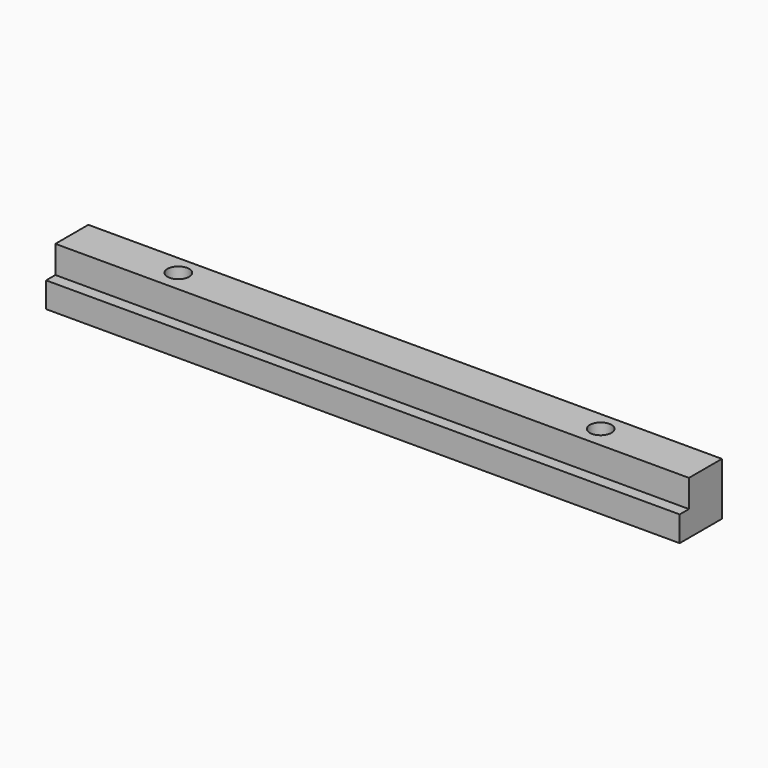
from build123d import *

# Parameters (mm, degrees)
F1_DEPTH       = 76.2
F3_D           = 5.2197
F3_CBORE_D     = 9.144
F3_CBORE_DEPTH = 5.2324


with BuildPart() as f1:
    # F0 (on Right) → F1 (new body, symmetric)
    with BuildSketch(Plane.YZ):
        Polygon((4.953, 6.35), (-4.953, 6.35), (-4.953, -0.254), (-7.747, -0.254), (-7.747, -6.35), (4.953, -6.35), align=None)
    extrude(amount=F1_DEPTH, both=True)

    # F3 (through all)
    with Locations(Plane(origin=(0, 0, -6.35), x_dir=(1, 0, 0), z_dir=(0, 0, -1))):
        with Locations((-50.8, -0.254), (50.8, -0.254)):
            CounterBoreHole(F3_D / 2, F3_CBORE_D / 2, F3_CBORE_DEPTH)


solid = f1.part
